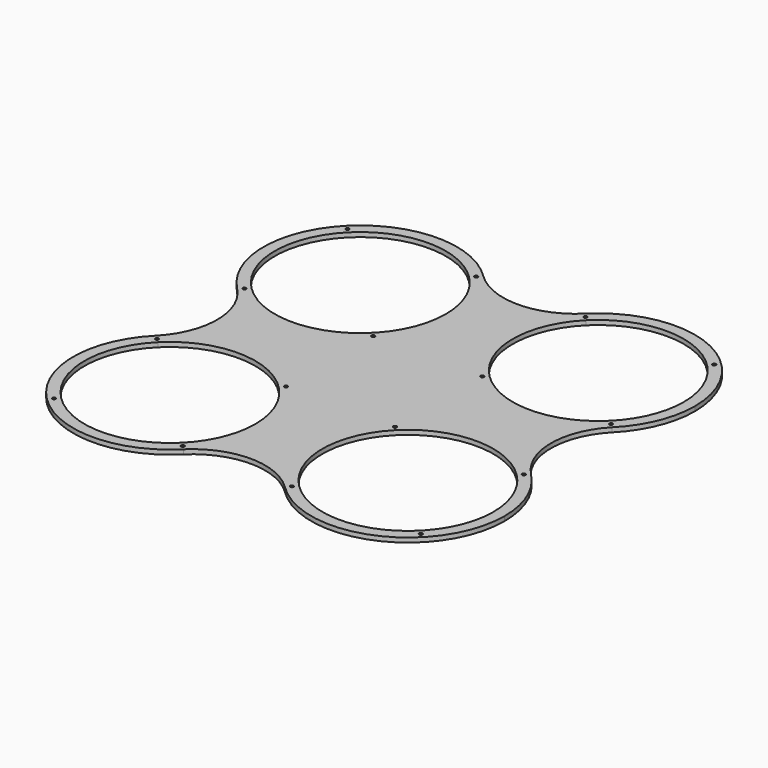
from build123d import *

# Parameters (mm, degrees)
F1_DEPTH = 4
F2_D     = 3


with BuildPart() as f1:
    # F0 (on Top) → F1 (new body)
    with BuildSketch(Plane.XY):
        with BuildLine():
            ThreePointArc((-52.18448, 159.947554), (-35.666397, 135.226495), (-29.866017, 106.066017))
            ThreePointArc((-29.866017, 106.066017), (-76.90554, 35.666397), (-159.947554, 52.18448))
            Line((-159.947554, 52.18448), (-167.018622, 45.113413))
            ThreePointArc((-167.018622, 45.113413), (-73.078705, 26.427601), (-19.866017, 106.066017))
            ThreePointArc((-19.866017, 106.066017), (-26.427601, 139.053329), (-45.113413, 167.018622))
            Line((-45.113413, 167.018622), (-52.18448, 159.947554))
        make_face()
        with BuildLine():
            ThreePointArc((-159.947554, 52.18448), (-159.947554, 159.947554), (-52.18448, 159.947554))
            Line((-52.18448, 159.947554), (-45.113413, 167.018622))
            ThreePointArc((-45.113413, 167.018622), (-167.018622, 167.018622), (-167.018622, 45.113413))
            Line((-167.018622, 45.113413), (-159.947554, 52.18448))
        make_face()
        with BuildLine():
            ThreePointArc((45.113413, 167.018622), (0, 148.813707), (-45.113413, 167.018622))
            ThreePointArc((-45.113413, 167.018622), (-26.427601, 139.053329), (-19.866017, 106.066017))
            ThreePointArc((-19.866017, 106.066017), (-73.078705, 26.427601), (-167.018622, 45.113413))
            ThreePointArc((-167.018622, 45.113413), (-148.813707, 0), (-167.018622, -45.113413))
            ThreePointArc((-167.018622, -45.113413), (-73.078705, -26.427601), (-19.866017, -106.066017))
            ThreePointArc((-19.866017, -106.066017), (-26.427601, -139.053329), (-45.113413, -167.018622))
            ThreePointArc((-45.113413, -167.018622), (0, -148.813707), (45.113413, -167.018622))
            ThreePointArc((45.113413, -167.018622), (45.113413, -45.113413), (167.018622, -45.113413))
            ThreePointArc((167.018622, -45.113413), (148.813707, 0), (167.018622, 45.113413))
            ThreePointArc((167.018622, 45.113413), (45.113413, 45.113413), (45.113413, 167.018622))
        make_face()
        with BuildLine():
            Line((52.18448, 159.947554), (45.113413, 167.018622))
            ThreePointArc((45.113413, 167.018622), (45.113413, 45.113413), (167.018622, 45.113413))
            Line((167.018622, 45.113413), (159.947554, 52.18448))
            ThreePointArc((159.947554, 52.18448), (52.18448, 52.18448), (52.18448, 159.947554))
        make_face()
        with BuildLine():
            ThreePointArc((192.266017, 106.066017), (139.053329, 185.704433), (45.113413, 167.018622))
            Line((45.113413, 167.018622), (52.18448, 159.947554))
            ThreePointArc((52.18448, 159.947554), (135.226495, 176.465638), (182.266017, 106.066017))
            ThreePointArc((182.266017, 106.066017), (176.465638, 76.90554), (159.947554, 52.18448))
            Line((159.947554, 52.18448), (167.018622, 45.113413))
            ThreePointArc((167.018622, 45.113413), (185.704433, 73.078705), (192.266017, 106.066017))
        make_face()
        with BuildLine():
            Line((159.947554, -52.18448), (167.018622, -45.113413))
            ThreePointArc((167.018622, -45.113413), (45.113413, -45.113413), (45.113413, -167.018622))
            Line((45.113413, -167.018622), (52.18448, -159.947554))
            ThreePointArc((52.18448, -159.947554), (52.18448, -52.18448), (159.947554, -52.18448))
        make_face()
        with BuildLine():
            ThreePointArc((192.266017, -106.066017), (185.704433, -73.078705), (167.018622, -45.113413))
            Line((167.018622, -45.113413), (159.947554, -52.18448))
            ThreePointArc((159.947554, -52.18448), (176.465638, -76.90554), (182.266017, -106.066017))
            ThreePointArc((182.266017, -106.066017), (135.226495, -176.465638), (52.18448, -159.947554))
            Line((52.18448, -159.947554), (45.113413, -167.018622))
            ThreePointArc((45.113413, -167.018622), (139.053329, -185.704433), (192.266017, -106.066017))
        make_face()
        with BuildLine():
            Line((-159.947554, -52.18448), (-167.018622, -45.113413))
            ThreePointArc((-167.018622, -45.113413), (-167.018622, -167.018622), (-45.113413, -167.018622))
            Line((-45.113413, -167.018622), (-52.18448, -159.947554))
            ThreePointArc((-52.18448, -159.947554), (-159.947554, -159.947554), (-159.947554, -52.18448))
        make_face()
        with BuildLine():
            ThreePointArc((-19.866017, -106.066017), (-73.078705, -26.427601), (-167.018622, -45.113413))
            Line((-167.018622, -45.113413), (-159.947554, -52.18448))
            ThreePointArc((-159.947554, -52.18448), (-76.90554, -35.666397), (-29.866017, -106.066017))
            ThreePointArc((-29.866017, -106.066017), (-35.666397, -135.226495), (-52.18448, -159.947554))
            Line((-52.18448, -159.947554), (-45.113413, -167.018622))
            ThreePointArc((-45.113413, -167.018622), (-26.427601, -139.053329), (-19.866017, -106.066017))
        make_face()
    extrude(amount=F1_DEPTH)

    # F2 (through all)
    with Locations(Plane(origin=(0, 0, 0), x_dir=(1, 0, 0), z_dir=(0, 0, -1))):
        with Locations((-163.483088, 163.483088), (-48.648947, 163.483088), (-48.648947, 48.648947), (-163.483088, 48.648947), (-163.483088, -48.648947), (-48.648947, -48.648947), (-48.648947, -163.483088), (-163.483088, -163.483088), (48.648947, -163.483088), (48.648947, -48.648947), (163.483088, -48.648947), (163.483088, -163.483088), (163.483088, 163.483088), (163.483088, 48.648947), (48.648947, 48.648947), (48.648947, 163.483088)):
            Hole(F2_D / 2)


solid = f1.part
